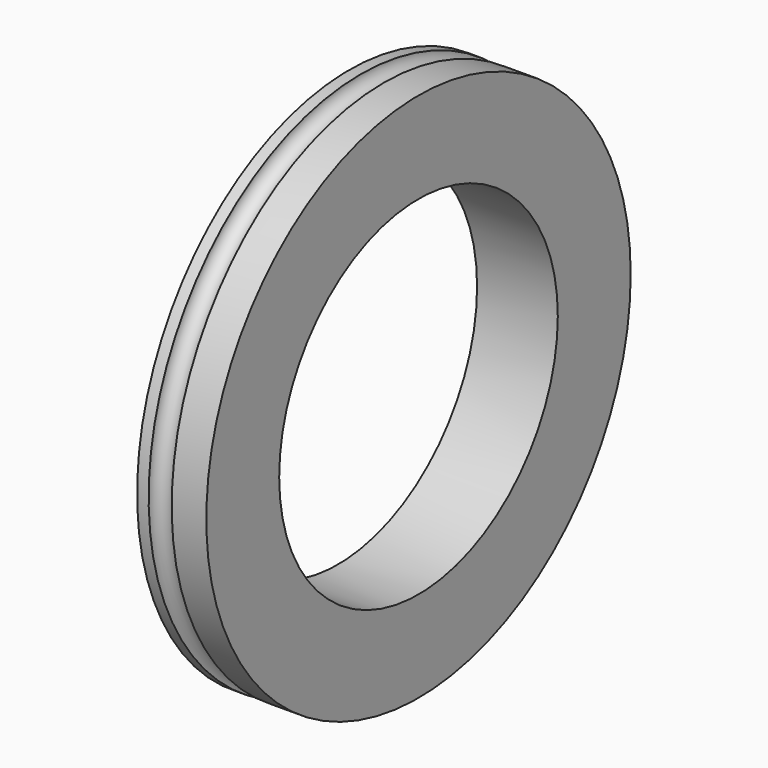
from build123d import *

# Parameters (mm, degrees)
F0_R     = 11.5
F1_DEPTH = 3
F2_R     = 9.5
F3_DEPTH = 0.5
F5_D     = 15.1
F5_DEPTH = 30
F5_TIP   = 4.5364976737
F6_R     = 0.5


with BuildPart() as f1:
    # F0 (on Right) → F1 (new body)
    with BuildSketch(Plane.YZ):
        Circle(F0_R)
    extrude(amount=F1_DEPTH)

    # F2 (on face) → F3 (join)
    with BuildSketch(Plane(origin=(0, 0, 0), x_dir=(0, -1, 0), z_dir=(-1, 0, 0))):
        Circle(F2_R)
    extrude(amount=F3_DEPTH)

    # F5
    with Locations(Plane(origin=(-0.5, 0, 0), x_dir=(0, -1, 0), z_dir=(-1, 0, 0))):
        with Locations((0, 0)):
            Hole(F5_D / 2, depth=F5_DEPTH)
            with Locations((0, 0, -(F5_DEPTH + F5_TIP / 2))):  # 118° drill point
                Cone(0, F5_D / 2, F5_TIP, mode=Mode.SUBTRACT)

    # F7: sweep along a path in F7_path
    with BuildLine(Plane(origin=(0, 11.5, 0), x_dir=(0, 0, 1), z_dir=(1, 0, 0))) as f7_path:
        CenterArc((0, 11.5), 11.5, 0, 360)
    # F6 (on Front) → F7 (sweep, cut)
    with BuildSketch(Plane.XZ):
        with Locations((1, -11.5)):
            Circle(F6_R)
    sweep(path=f7_path.line, mode=Mode.SUBTRACT)


solid = f1.part
